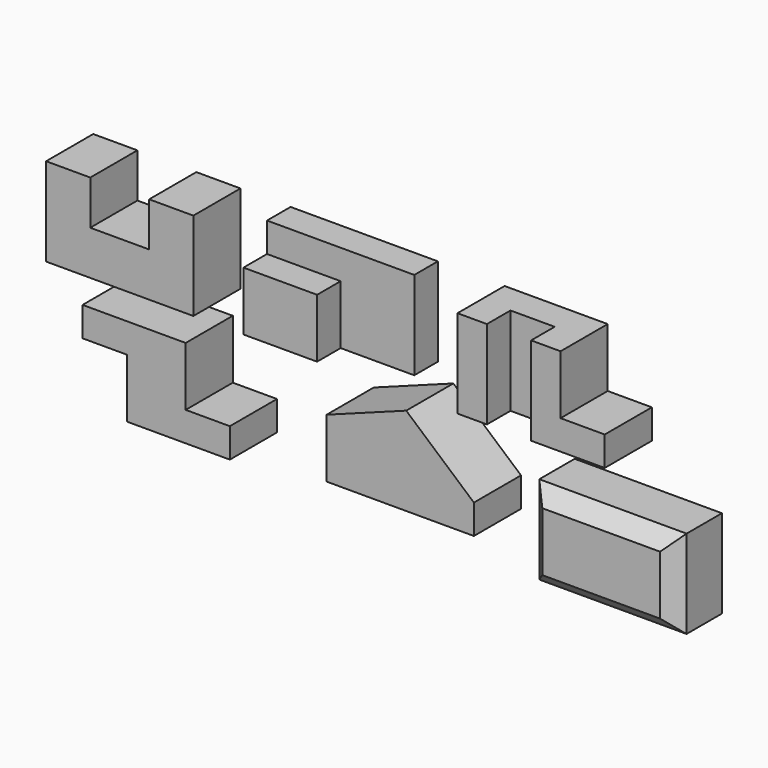
from build123d import *

# Parameters (mm, degrees)
F1_DEPTH  = 101.6
F3_DEPTH  = 152.4
F4_W      = 127
F4_H      = 50.8
F5_DEPTH  = 50.8
F7_DEPTH  = 101.6
F8_W      = 76.2
F8_H      = 50.8
F9_DEPTH  = 152.4
F11_DEPTH = 101.6
F13_DEPTH = 101.6
F14_W     = 254
F14_H     = 152.4
F15_DEPTH = 101.6
F16_SIZE  = 25.4


with BuildPart() as f1:
    # F0 (on Front) → F1 (new body)
    with BuildSketch(Plane.XZ):
        Polygon((0, 152.4), (0, 0), (254, 0), (254, 152.4), (177.8, 152.4), (177.8, 76.2), (76.2, 76.2), (76.2, 152.4), align=None)
    extrude(amount=-F1_DEPTH)


with BuildPart() as f3:
    # F2 (on Top) → F3 (new body)
    with BuildSketch(Plane.XY):
        Polygon((340.417987, 101.6), (340.417987, 0), (467.417987, 0), (467.417987, 50.8), (594.417987, 50.8), (594.417987, 101.6), align=None)
    extrude(amount=F3_DEPTH)

    # F4 (on face) → F5 (cut)
    with BuildSketch(Plane.XZ):
        with Locations((403.917987, 127)):
            Rectangle(F4_W, F4_H)
    extrude(amount=-F5_DEPTH, mode=Mode.SUBTRACT)


with BuildPart() as f7:
    # F6 (on Front) → F7 (new body)
    with BuildSketch(Plane.XZ):
        Polygon((887.346619, 152.4), (709.546619, 152.4), (709.546619, 0), (963.546619, 0), (963.546619, 50.8), (887.346619, 50.8), align=None)
    extrude(amount=-F7_DEPTH)

    # F8 (on face) → F9 (cut)
    with BuildSketch(Plane.XY.offset(152.4)):
        with Locations((798.446619, 25.4)):
            Rectangle(F8_W, F8_H)
    extrude(amount=-F9_DEPTH, mode=Mode.SUBTRACT)


with BuildPart() as f11:
    # F10 (on Front) → F11 (new body)
    with BuildSketch(Plane.XZ):
        Polygon((240.745873, -45.249616), (62.945873, -45.249616), (62.945873, -96.049616), (139.145873, -96.049616), (139.145873, -197.649616), (316.945873, -197.649616), (316.945873, -146.849616), (240.745873, -146.849616), align=None)
    extrude(amount=-F11_DEPTH)


with BuildPart() as f13:
    # F12 (on Front) → F13 (new body)
    with BuildSketch(Plane.XZ):
        Polygon((483.86136, -75.123226), (483.86136, -176.723226), (737.86136, -176.723226), (737.86136, -125.923226), (621.143999, -24.323226), align=None)
    extrude(amount=-F13_DEPTH)


with BuildPart() as f15:
    # F14 (on Front) → F15 (new body)
    with BuildSketch(Plane.XZ):
        with Locations((957.380065, -146.905967)):
            Rectangle(F14_W, F14_H)
    extrude(amount=-F15_DEPTH)

    # F16
    f16_edges = [f15.edges().sort_by_distance(p)[0] for p in [
        (957.380065, 0, -70.705967),
        (830.380065, 0, -146.905967),
        (957.380065, 0, -223.105967),
        (1084.380065, 0, -146.905967),
    ]]
    chamfer(f16_edges, length=F16_SIZE)


solid = Compound([f1.part, f3.part, f7.part, f11.part, f13.part, f15.part])
